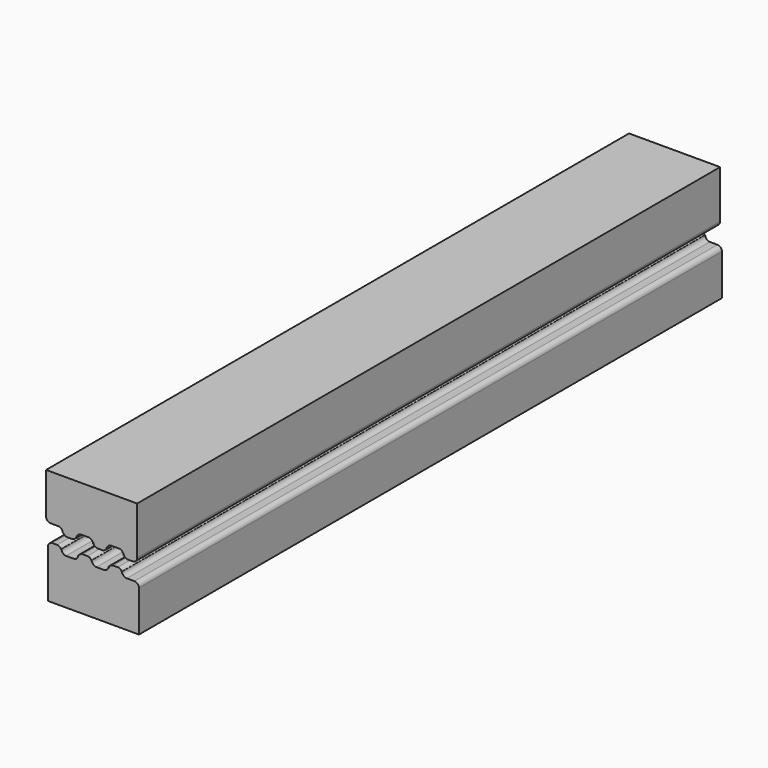
from build123d import *

# Parameters (mm, degrees)
F1_DEPTH = 80
F3_ANGLE = 180


with BuildPart() as f1:
    # F0 (on Front) → F1 (new body)
    with BuildSketch(Plane.XZ):
        with BuildLine():
            Line((0, 5), (0, 0))
            Line((0, 0), (10, 0))
            Line((10, 0), (10, 4.5))
            ThreePointArc((10, 4.5), (9.853553, 4.853553), (9.5, 5))
            Line((9.5, 5), (8.666667, 5))
            ThreePointArc((8.666667, 5), (8.313113, 5.146447), (8.166667, 5.5))
            Line((8.166667, 5.5), (8.166667, 5.25))
            ThreePointArc((8.166667, 5.25), (8.02022, 5.603553), (7.666667, 5.75))
            Line((7.666667, 5.75), (7.166667, 5.75))
            ThreePointArc((7.166667, 5.75), (6.813113, 5.603553), (6.666667, 5.25))
            Line((6.666667, 5.25), (6.666667, 5.5))
            ThreePointArc((6.666667, 5.5), (6.52022, 5.146447), (6.166667, 5))
            Line((6.166667, 5), (5.333333, 5))
            ThreePointArc((5.333333, 5), (4.97978, 5.146447), (4.833333, 5.5))
            Line((4.833333, 5.5), (4.833333, 5.25))
            ThreePointArc((4.833333, 5.25), (4.686887, 5.603553), (4.333333, 5.75))
            Line((4.333333, 5.75), (3.833333, 5.75))
            ThreePointArc((3.833333, 5.75), (3.47978, 5.603553), (3.333333, 5.25))
            Line((3.333333, 5.25), (3.333333, 5.5))
            ThreePointArc((3.333333, 5.5), (3.186887, 5.146447), (2.833333, 5))
            Line((2.833333, 5), (2, 5))
            ThreePointArc((2, 5), (1.646447, 5.146447), (1.5, 5.5))
            Line((1.5, 5.5), (1.5, 5.25))
            ThreePointArc((1.5, 5.25), (1.353553, 5.603553), (1, 5.75))
            Line((1, 5.75), (0.5, 5.75))
            ThreePointArc((0.5, 5.75), (0.146447, 5.603553), (0, 5.25))
            Line((0, 5.25), (0, 5))
        make_face()
    extrude(amount=F1_DEPTH)


with BuildPart() as f2_1:
    # F2: copy of F1
    add(f1.part.moved(Location((0, 0, 17.5))))


with BuildPart() as f2_1_1:
    # F3: moved
    add(f2_1.part.rotate(Axis((10, -40, 0), (0, -1, 0)), F3_ANGLE))


with BuildPart() as f2_1_2:
    # F4: moved
    add(f2_1_1.part.moved(Location((-10.2, 0, 30.1))))


solid = Compound([f1.part, f2_1_2.part])
